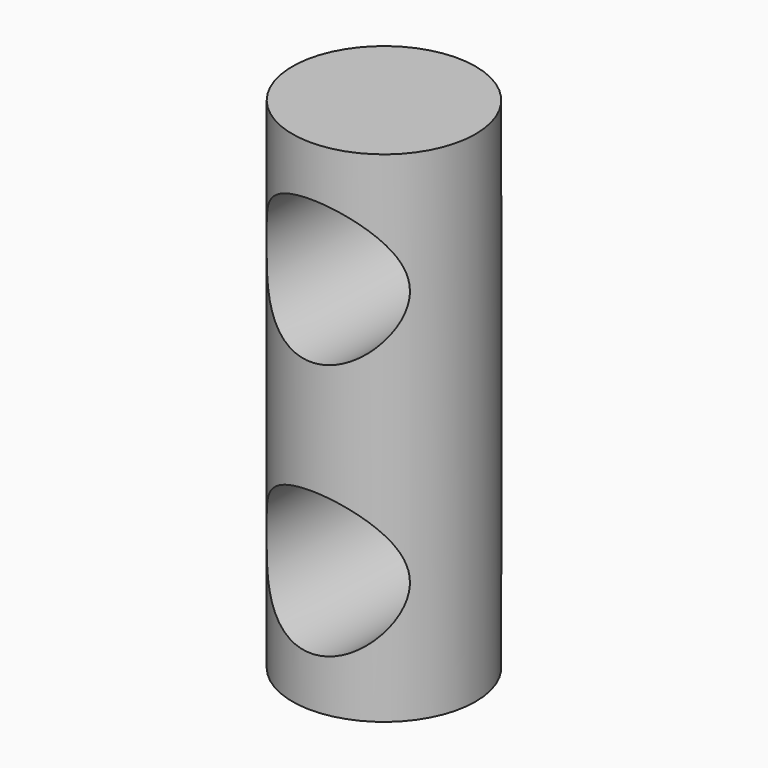
from build123d import *

# Parameters (mm, degrees)
F0_R     = 8.25
F1_DEPTH = 45
F2_R     = 6.45
F3_DEPTH = 12.5


with BuildPart() as f1:
    # F0 (on Top) → F1 (new body)
    with BuildSketch(Plane.XY):
        Circle(F0_R)
        Circle(F0_R)
    extrude(amount=F1_DEPTH)

    # F2 (on Front) → F3 (cut, symmetric)
    with BuildSketch(Plane.XZ):
        with Locations((0, 10.95)):
            Circle(F2_R)
        with Locations((0, 34.05)):
            Circle(F2_R)
    extrude(amount=F3_DEPTH, both=True, mode=Mode.SUBTRACT)


solid = f1.part
